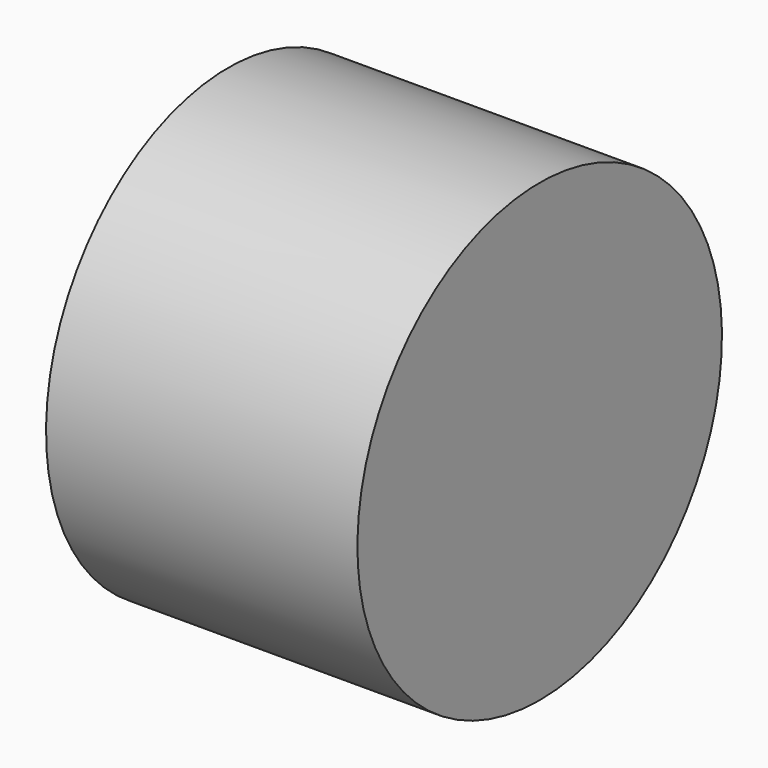
from build123d import *

# Parameters (mm, degrees)
CYLINDER055_R     = 1.25
CYLINDER055_DEPTH = 5
CYLINDER030_R     = 3
CYLINDER030_DEPTH = 4.1


with BuildPart() as b_w002:
    # Cylinder055 → Cylinder055 (new body)
    with BuildSketch(Plane(origin=(2, 6, 26), x_dir=(0, 0, 1), z_dir=(-1, 0, 0))):
        Circle(CYLINDER055_R)
    extrude(amount=CYLINDER055_DEPTH)


with BuildPart() as cut020:
    # Cylinder030 → Cylinder030 (new body)
    with BuildSketch(Plane(origin=(-1, 6, 26), x_dir=(0, 0, -1), z_dir=(1, 0, 0))):
        Circle(CYLINDER030_R)
    extrude(amount=CYLINDER030_DEPTH)

    # Cut020: cut B_W002
    add(b_w002.part, mode=Mode.SUBTRACT)


solid = cut020.part
